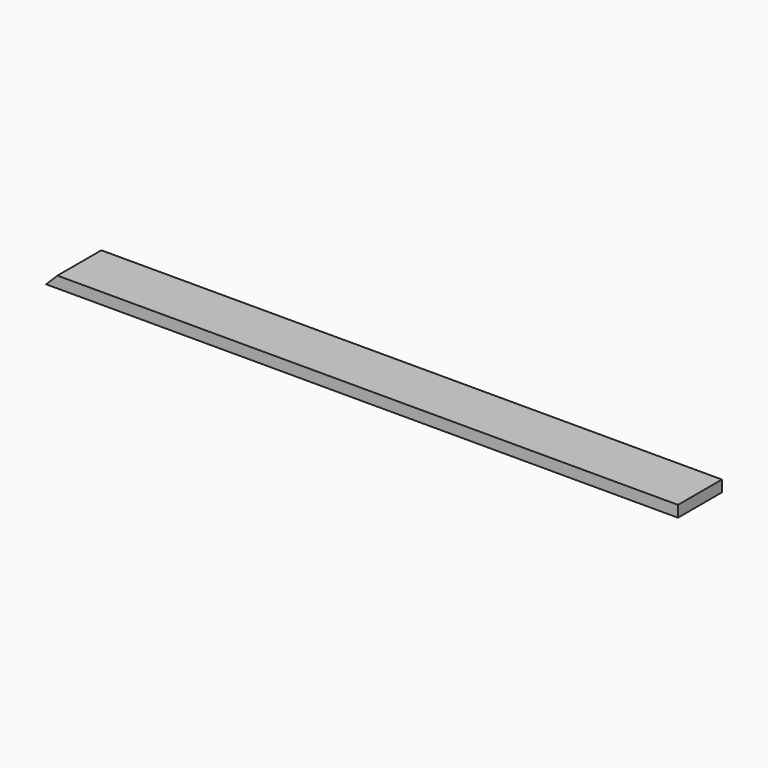
from build123d import *

# Parameters (mm, degrees)
F0_W     = 2120.9
F0_H     = 184.15
F1_DEPTH = 38.1
F3_DEPTH = 254


with BuildPart() as f1:
    # F0 (on Top) → F1 (new body)
    with BuildSketch(Plane.XY):
        with Locations((1060.45, 92.075)):
            Rectangle(F0_W, F0_H)
    extrude(amount=F1_DEPTH)

    # F2 (on face) → F3 (cut)
    with BuildSketch(Plane(origin=(0, 184.15, 0), x_dir=(-1, 0, 0), z_dir=(0, 1, 0))):
        Polygon((0, 0), (0, 38.1), (-38.1, 38.1), align=None)
    extrude(amount=-F3_DEPTH, mode=Mode.SUBTRACT)


solid = f1.part
